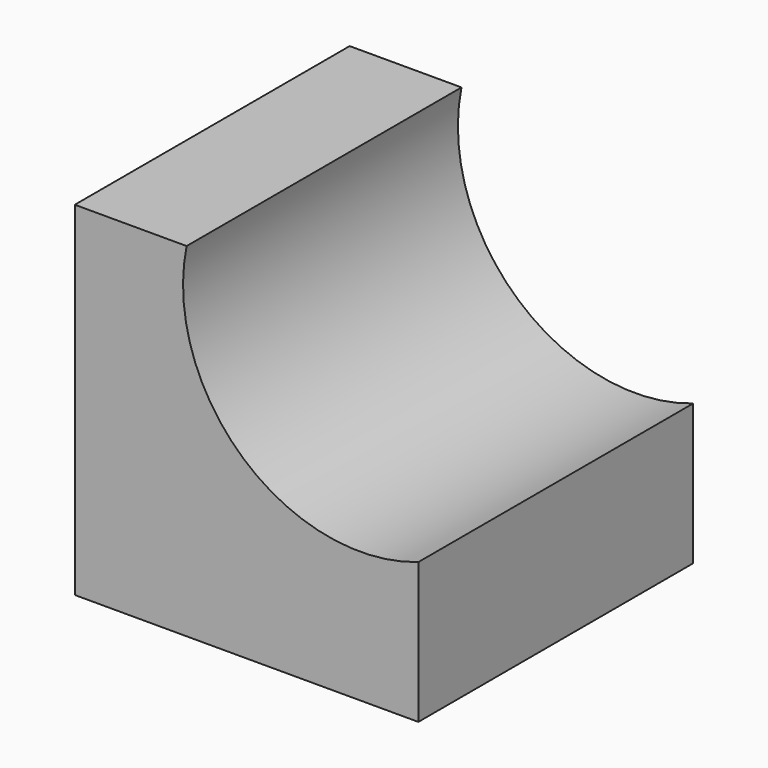
from build123d import *

# Parameters (mm, degrees)
F0_W     = 76.2
F0_H     = 76.2
F1_DEPTH = 76.2
F2_R     = 39.306587
F3_DEPTH = 101.6


with BuildPart() as f1:
    # F0 (on Front) → F1 (new body)
    with BuildSketch(Plane.XZ):
        with Locations((-46.311049, 48.602506)):
            Rectangle(F0_W, F0_H)
    extrude(amount=F1_DEPTH)

    # F2 (on face) → F3 (cut)
    with BuildSketch(Plane.XZ.offset(76.2)):
        with BuildLine():
            ThreePointArc((-8.211049, 41.7134), (10.932512, 56.060384), (18.212613, 78.848802))
            ThreePointArc((18.212613, 78.848802), (-17.147175, 117.956736), (-59.60796, 86.702506))
            Line((-59.60796, 86.702506), (-8.211049, 86.702506))
            Line((-8.211049, 86.702506), (-8.211049, 41.7134))
        make_face()
        with Locations((-21.093974, 78.848802)):
            Circle(F2_R)
    extrude(amount=-F3_DEPTH, mode=Mode.SUBTRACT)


solid = f1.part
